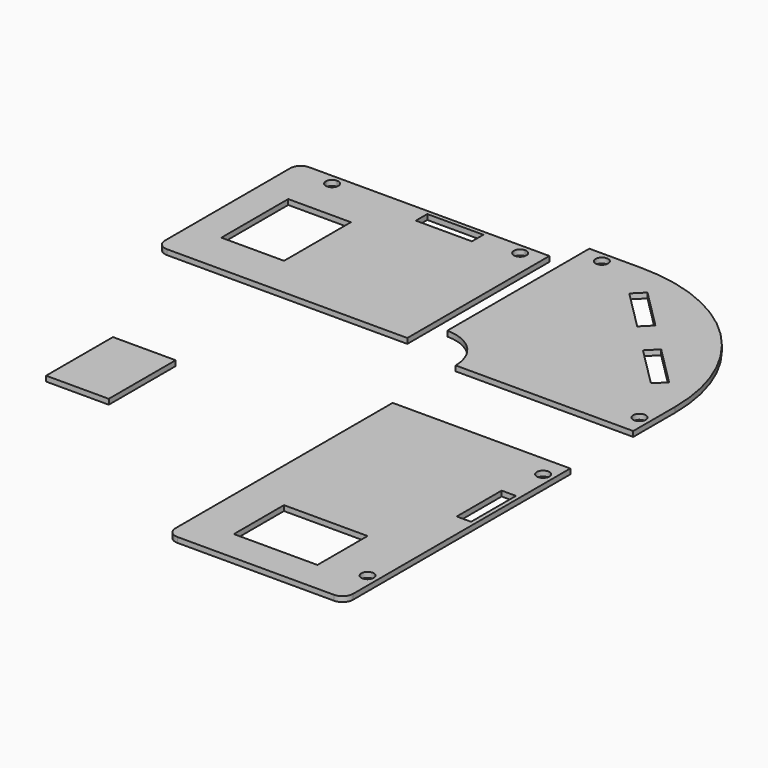
from build123d import *

# Parameters (mm, degrees)
F0_W     = 268.5
F0_H     = 68.5
F0_W_2   = 300
F0_H_2   = 400
F1_DEPTH = 25
F0_W_3   = 400
F0_H_3   = 300
F0_W_4   = 68.5
F0_H_4   = 268.5


with BuildPart() as f1:
    # F0 (on Top) → F1 (new body)
    with BuildSketch(Plane.XY):
        with BuildLine():
            Line((-1063.5335713625, 803.8479559124), (-1113.5335713625, 803.8479559124))
            ThreePointArc((-1113.5335713625, 803.8479559124), (-1148.8889104218, 789.2032949717), (-1163.5335713625, 753.8479559124))
            Line((-1163.5335713625, 753.8479559124), (-1163.5335713625, 703.8479559124))
            Line((-1163.5335713625, 703.8479559124), (-1063.5335713625, 703.8479559124))
            Line((-1063.5335713625, 703.8479559124), (-1063.5335713625, 753.8479559124))
            Line((-1063.5335713625, 753.8479559124), (-1063.5335713625, 803.8479559124))
        make_face()
        with BuildLine():
            Line((-963.5335713625, 803.8479559124), (-1063.5335713625, 803.8479559124))
            Line((-1063.5335713625, 803.8479559124), (-1063.5335713625, 753.8479559124))
            Line((-1063.5335713625, 753.8479559124), (-993.5335713625, 753.8479559124))
            ThreePointArc((-993.5335713625, 753.8479559124), (-984.7467747981, 775.0611593479), (-963.5335713625, 783.8479559124))
            Line((-963.5335713625, 783.8479559124), (-963.5335713625, 803.8479559124))
        make_face()
        with BuildLine():
            Line((-63.5335713625, 803.8479559124), (-963.5335713625, 803.8479559124))
            Line((-963.5335713625, 803.8479559124), (-963.5335713625, 783.8479559124))
            ThreePointArc((-963.5335713625, 783.8479559124), (-942.3203679269, 775.0611593479), (-933.5335713625, 753.8479559124))
            ThreePointArc((-933.5335713625, 753.8479559124), (-963.5335713625, 723.8479559124), (-993.5335713625, 753.8479559124))
            Line((-993.5335713625, 753.8479559124), (-1063.5335713625, 753.8479559124))
            Line((-1063.5335713625, 753.8479559124), (-1063.5335713625, 703.8479559124))
            Line((-1063.5335713625, 703.8479559124), (36.4664286375, 703.8479559124))
            Line((36.4664286375, 703.8479559124), (36.4664286375, 753.8479559124))
            Line((36.4664286375, 753.8479559124), (-33.5335713625, 753.8479559124))
            ThreePointArc((-33.5335713625, 753.8479559124), (-84.7467747981, 732.6347524768), (-63.5335713625, 783.8479559124))
            Line((-63.5335713625, 783.8479559124), (-63.5335713625, 803.8479559124))
        make_face()
        with Locations((-397.7835713625, 749.5979559124)):
            Rectangle(F0_W, F0_H, mode=Mode.SUBTRACT)
        with BuildLine():
            Line((-1063.5335713625, 703.8479559124), (-1163.5335713625, 703.8479559124))
            Line((-1163.5335713625, 703.8479559124), (-1163.5335713625, 3.8479559124))
            ThreePointArc((-1163.5335713625, 3.8479559124), (-1148.8889104218, -31.507383147), (-1113.5335713625, -46.1520440876))
            Line((-1113.5335713625, -46.1520440876), (36.4664286375, -46.1520440876))
            Line((36.4664286375, -46.1520440876), (36.4664286375, 703.8479559124))
            Line((36.4664286375, 703.8479559124), (-1063.5335713625, 703.8479559124))
        make_face()
        with Locations((-863.5335713625, 353.8479559124)):
            Rectangle(F0_W_2, F0_H_2, mode=Mode.SUBTRACT)
        with BuildLine():
            Line((36.4664286375, 803.8479559124), (-63.5335713625, 803.8479559124))
            Line((-63.5335713625, 803.8479559124), (-63.5335713625, 783.8479559124))
            ThreePointArc((-63.5335713625, 783.8479559124), (-42.3203679269, 775.0611593479), (-33.5335713625, 753.8479559124))
            Line((-33.5335713625, 753.8479559124), (36.4664286375, 753.8479559124))
            Line((36.4664286375, 753.8479559124), (36.4664286375, 803.8479559124))
        make_face()
    extrude(amount=F1_DEPTH)


with BuildPart() as f1b:
    # F0 (on Top) → F1, piece 2 (new body)
    with BuildSketch(Plane.XY):
        with BuildLine():
            Line((215.9929871559, 943.3415107838), (115.9929871559, 943.3415107838))
            Line((115.9929871559, 943.3415107838), (115.9929871559, 893.3415107838))
            Line((115.9929871559, 893.3415107838), (185.9929871559, 893.3415107838))
            ThreePointArc((185.9929871559, 893.3415107838), (194.7797837203, 914.5547142194), (215.9929871559, 923.3415107838))
            Line((215.9929871559, 923.3415107838), (215.9929871559, 943.3415107838))
        make_face()
        with BuildLine():
            Line((365.9929871559, 943.3415107838), (215.9929871559, 943.3415107838))
            Line((215.9929871559, 943.3415107838), (215.9929871559, 923.3415107838))
            ThreePointArc((215.9929871559, 923.3415107838), (237.2061905915, 914.5547142194), (245.9929871559, 893.3415107838))
            ThreePointArc((245.9929871559, 893.3415107838), (215.9929871559, 863.3415107838), (185.9929871559, 893.3415107838))
            Line((185.9929871559, 893.3415107838), (115.9929871559, 893.3415107838))
            Line((115.9929871559, 893.3415107838), (115.9929871559, 843.3415107838))
            Line((115.9929871559, 843.3415107838), (365.9929871559, 843.3415107838))
            Line((365.9929871559, 843.3415107838), (365.9929871559, 943.3415107838))
        make_face()
        with BuildLine():
            Line((474.4453924136, 834.8891055261), (365.9929871559, 943.3415107838))
            Line((365.9929871559, 943.3415107838), (365.9929871559, 843.3415107838))
            ThreePointArc((365.9929871559, 843.3415107838), (420.3836282645, 841.2252103784), (474.4453924136, 834.8891055261))
        make_face()
        with BuildLine():
            ThreePointArc((1165.9929871559, 143.3415107838), (931.6784121052, 709.026935733), (365.9929871559, 943.3415107838))
            Line((365.9929871559, 943.3415107838), (474.4453924136, 834.8891055261))
            ThreePointArc((474.4453924136, 834.8891055261), (860.9677339865, 638.3162576144), (1057.5405818982, 251.7939160415))
            Line((1057.5405818982, 251.7939160415), (1165.9929871559, 143.3415107838))
        make_face()
        with BuildLine():
            Line((365.9929871559, 843.3415107838), (115.9929871559, 843.3415107838))
            Line((115.9929871559, 843.3415107838), (115.9929871559, 93.3415107838))
            ThreePointArc((115.9929871559, 93.3415107838), (257.4143433932, 34.7628670211), (315.9929871559, -106.6584892162))
            Line((315.9929871559, -106.6584892162), (365.8921290354, -106.6584892162))
            Line((365.8921290354, -106.6584892162), (1065.9929871559, -106.6584892162))
            Line((1065.9929871559, -106.6584892162), (1065.9929871559, 143.3415107838))
            ThreePointArc((1065.9929871559, 143.3415107838), (1063.8766867505, 197.7321518924), (1057.5405818982, 251.7939160415))
            Line((1057.5405818982, 251.7939160415), (1024.5716309186, 284.7628670211))
            Line((1024.5716309186, 284.7628670211), (976.1348164073, 236.3260525098))
            Line((976.1348164073, 236.3260525098), (786.2766456587, 426.1842232584))
            Line((786.2766456587, 426.1842232584), (834.71346017, 474.6210377697))
            Line((834.71346017, 474.6210377697), (697.2725141418, 612.0619837979))
            Line((697.2725141418, 612.0619837979), (648.8356996305, 563.6251692866))
            Line((648.8356996305, 563.6251692866), (458.9775288819, 753.4833400352))
            Line((458.9775288819, 753.4833400352), (507.4143433932, 801.9201545465))
            Line((507.4143433932, 801.9201545465), (474.4453924136, 834.8891055261))
            ThreePointArc((474.4453924136, 834.8891055261), (420.3836282645, 841.2252103784), (365.9929871559, 843.3415107838))
        make_face()
        with BuildLine():
            Line((1165.9929871559, -6.6584892162), (1165.9929871559, 143.3415107838))
            Line((1165.9929871559, 143.3415107838), (1065.9929871559, 143.3415107838))
            Line((1065.9929871559, 143.3415107838), (1065.9929871559, -106.6584892162))
            Line((1065.9929871559, -106.6584892162), (1115.9929871559, -106.6584892162))
            Line((1115.9929871559, -106.6584892162), (1115.9929871559, -36.6584892162))
            ThreePointArc((1115.9929871559, -36.6584892162), (1094.7797837203, 14.5547142194), (1145.9929871559, -6.6584892162))
            Line((1145.9929871559, -6.6584892162), (1165.9929871559, -6.6584892162))
        make_face()
        with BuildLine():
            Line((1065.9929871559, 143.3415107838), (1165.9929871559, 143.3415107838))
            Line((1165.9929871559, 143.3415107838), (1057.5405818982, 251.7939160415))
            ThreePointArc((1057.5405818982, 251.7939160415), (1063.8766867505, 197.7321518924), (1065.9929871559, 143.3415107838))
        make_face()
        with BuildLine():
            Line((1165.9929871559, -106.6584892162), (1165.9929871559, -6.6584892162))
            Line((1165.9929871559, -6.6584892162), (1145.9929871559, -6.6584892162))
            ThreePointArc((1145.9929871559, -6.6584892162), (1137.2061905915, -27.8716926518), (1115.9929871559, -36.6584892162))
            Line((1115.9929871559, -36.6584892162), (1115.9929871559, -106.6584892162))
            Line((1115.9929871559, -106.6584892162), (1165.9929871559, -106.6584892162))
        make_face()
        with BuildLine():
            ThreePointArc((1057.5405818982, 251.7939160415), (860.9677339865, 638.3162576144), (474.4453924136, 834.8891055261))
            Line((474.4453924136, 834.8891055261), (507.4143433932, 801.9201545465))
            Line((507.4143433932, 801.9201545465), (697.2725141418, 612.0619837979))
            Line((697.2725141418, 612.0619837979), (834.71346017, 474.6210377697))
            Line((834.71346017, 474.6210377697), (1024.5716309186, 284.7628670211))
            Line((1024.5716309186, 284.7628670211), (1057.5405818982, 251.7939160415))
        make_face()
    extrude(amount=F1_DEPTH)


with BuildPart() as f1c:
    # F0 (on Top) → F1, piece 3 (new body)
    with BuildSketch(Plane.XY):
        with BuildLine():
            Line((1071.585559845, -490.2992320061), (321.585559845, -490.2992320061))
            Line((321.585559845, -490.2992320061), (321.585559845, -1790.2992320061))
            ThreePointArc((321.585559845, -1790.2992320061), (336.2302207856, -1825.6545710654), (371.585559845, -1840.2992320061))
            Line((371.585559845, -1840.2992320061), (1071.585559845, -1840.2992320061))
            Line((1071.585559845, -1840.2992320061), (1071.585559845, -1740.2992320061))
            Line((1071.585559845, -1740.2992320061), (1071.585559845, -490.2992320061))
        make_face()
        with Locations((721.585559845, -1540.2992320061)):
            Rectangle(F0_W_3, F0_H_3, mode=Mode.SUBTRACT)
        with BuildLine():
            Line((1121.585559845, -490.2992320061), (1071.585559845, -490.2992320061))
            Line((1071.585559845, -490.2992320061), (1071.585559845, -1740.2992320061))
            Line((1071.585559845, -1740.2992320061), (1121.585559845, -1740.2992320061))
            Line((1121.585559845, -1740.2992320061), (1121.585559845, -1670.2992320061))
            ThreePointArc((1121.585559845, -1670.2992320061), (1100.3723564094, -1619.0860285705), (1151.585559845, -1640.2992320061))
            Line((1151.585559845, -1640.2992320061), (1171.585559845, -1640.2992320061))
            Line((1171.585559845, -1640.2992320061), (1171.585559845, -590.2992320061))
            Line((1171.585559845, -590.2992320061), (1151.585559845, -590.2992320061))
            ThreePointArc((1151.585559845, -590.2992320061), (1100.3723564094, -611.5124354417), (1121.585559845, -560.2992320061))
            Line((1121.585559845, -560.2992320061), (1121.585559845, -490.2992320061))
        make_face()
        with Locations((1117.335559845, -924.5492320061)):
            Rectangle(F0_W_4, F0_H_4, mode=Mode.SUBTRACT)
        with BuildLine():
            Line((1171.585559845, -490.2992320061), (1121.585559845, -490.2992320061))
            Line((1121.585559845, -490.2992320061), (1121.585559845, -560.2992320061))
            ThreePointArc((1121.585559845, -560.2992320061), (1142.7987632806, -569.0860285705), (1151.585559845, -590.2992320061))
            Line((1151.585559845, -590.2992320061), (1171.585559845, -590.2992320061))
            Line((1171.585559845, -590.2992320061), (1171.585559845, -490.2992320061))
        make_face()
        with BuildLine():
            Line((1121.585559845, -1740.2992320061), (1071.585559845, -1740.2992320061))
            Line((1071.585559845, -1740.2992320061), (1071.585559845, -1840.2992320061))
            Line((1071.585559845, -1840.2992320061), (1121.585559845, -1840.2992320061))
            ThreePointArc((1121.585559845, -1840.2992320061), (1156.9408989043, -1825.6545710654), (1171.585559845, -1790.2992320061))
            Line((1171.585559845, -1790.2992320061), (1171.585559845, -1740.2992320061))
            Line((1171.585559845, -1740.2992320061), (1121.585559845, -1740.2992320061))
        make_face()
        with BuildLine():
            Line((1121.585559845, -1670.2992320061), (1121.585559845, -1740.2992320061))
            Line((1121.585559845, -1740.2992320061), (1171.585559845, -1740.2992320061))
            Line((1171.585559845, -1740.2992320061), (1171.585559845, -1640.2992320061))
            Line((1171.585559845, -1640.2992320061), (1151.585559845, -1640.2992320061))
            ThreePointArc((1151.585559845, -1640.2992320061), (1142.7987632806, -1661.5124354417), (1121.585559845, -1670.2992320061))
        make_face()
    extrude(amount=F1_DEPTH)


with BuildPart() as f1d:
    # F0 (on Top) → F1, piece 4 (new body)
    with BuildSketch(Plane.XY):
        with Locations((-677.2259831429, -927.5414228439)):
            Rectangle(F0_W_2, F0_H_2)
    extrude(amount=F1_DEPTH)


solid = Compound([f1.part, f1b.part, f1c.part, f1d.part])
